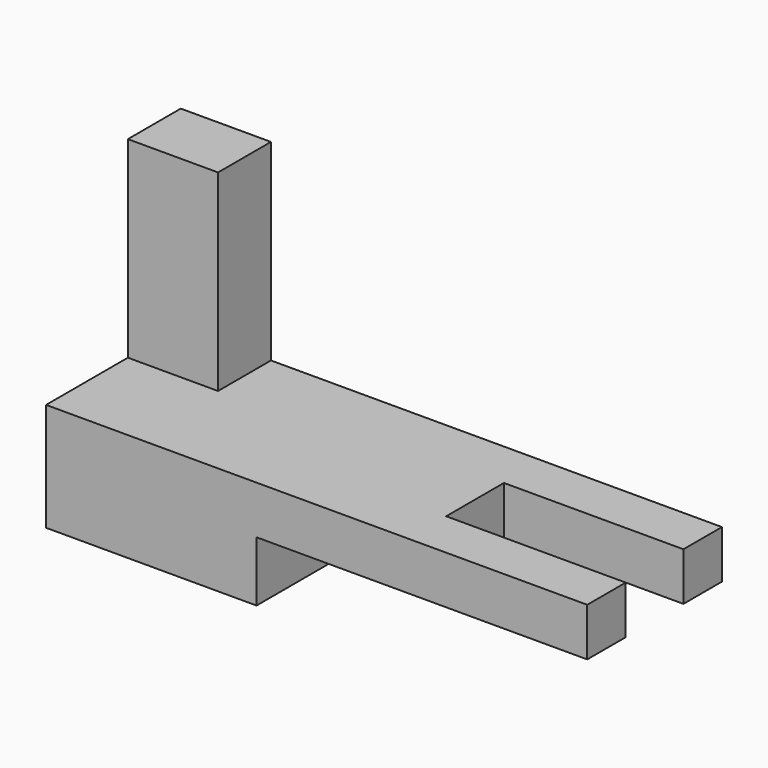
from build123d import *

# Parameters (mm, degrees)
F1_DEPTH = 28
F2_W     = 17
F2_H     = 32
F3_DEPTH = 25
F4_W     = 29.857718
F4_H     = 12
F5_DEPTH = 25


with BuildPart() as f1:
    # F0 (on Front) → F1 (new body)
    with BuildSketch(Plane.XZ):
        Polygon((0, 50), (0, 0), (35, 0), (35, 10), (90, 10), (90, 18), (15, 18), (15, 50), align=None)
    extrude(amount=F1_DEPTH)

    # F2 (on face) → F3 (cut)
    with BuildSketch(Plane.YZ.offset(15)):
        with Locations((-19.5, 34)):
            Rectangle(F2_W, F2_H)
    extrude(amount=-F3_DEPTH, mode=Mode.SUBTRACT)

    # F4 (on face) → F5 (cut)
    with BuildSketch(Plane.XY.offset(18)):
        with Locations((75.071141, -14)):
            Rectangle(F4_W, F4_H)
    extrude(amount=-F5_DEPTH, mode=Mode.SUBTRACT)


solid = f1.part
